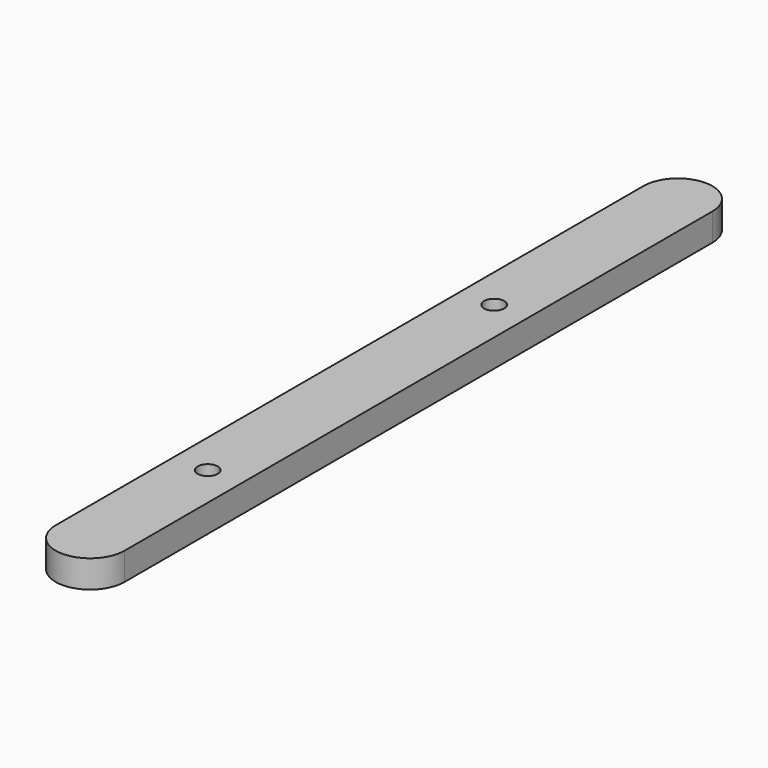
from build123d import *

# Parameters (mm, degrees)
F0_W     = 15
F0_H     = 160
F0_R     = 2.2
F1_DEPTH = 6


with BuildPart() as f1:
    # F0 (on Top) → F1 (new body)
    with BuildSketch(Plane.XY):
        Rectangle(F0_W, F0_H)
        with Locations((0, -48)):
            Circle(F0_R, mode=Mode.SUBTRACT)
        with Locations((0, 30)):
            Circle(F0_R, mode=Mode.SUBTRACT)
        with BuildLine():
            Line((-7.5, 80), (7.5, 80))
            ThreePointArc((7.5, 80), (0, 87.5), (-7.5, 80))
        make_face()
        with BuildLine():
            ThreePointArc((-7.5, -80), (0, -87.5), (7.5, -80))
            Line((7.5, -80), (-7.5, -80))
        make_face()
    extrude(amount=F1_DEPTH)


solid = f1.part
